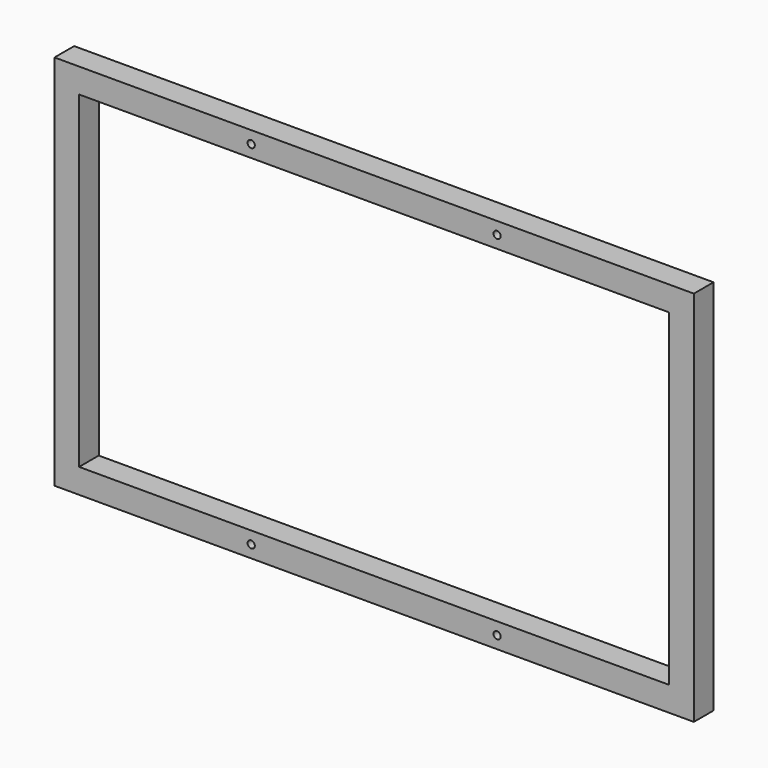
from build123d import *

# Parameters (mm, degrees)
F0_W     = 780
F0_H     = 460
F0_W_2   = 720
F0_H_2   = 400
F1_DEPTH = 30
F2_D     = 8.8


with BuildPart() as f1:
    # F0 (on Front) → F1 (new body)
    with BuildSketch(Plane.XZ):
        with Locations((390, 230)):
            Rectangle(F0_W, F0_H)
        with Locations((390, 230)):
            Rectangle(F0_W_2, F0_H_2, mode=Mode.SUBTRACT)
    extrude(amount=F1_DEPTH)

    # F2 (through all)
    with Locations(Plane(origin=(0, 0, 0), x_dir=(1, 0, 0), z_dir=(0, 1, 0))):
        with Locations((240, -445), (540, -445), (540, -15), (240, -15)):
            Hole(F2_D / 2)


solid = f1.part
